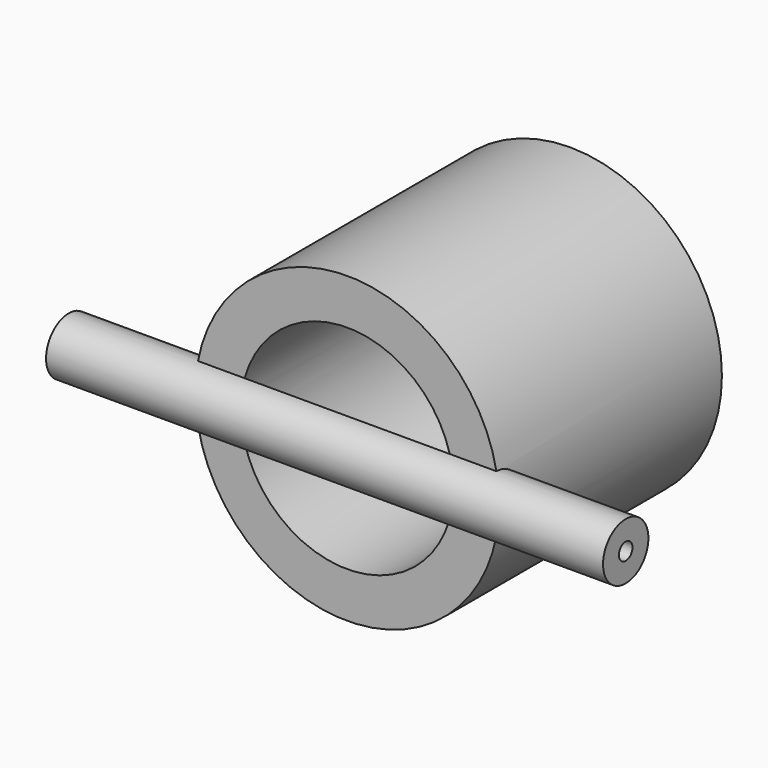
from build123d import *

# Parameters (mm, degrees)
F2_R          = 10.668
F3_DEPTH      = 104.775
F3_DEPTH_BACK = 104.775
F0_R          = 57.15
F4_DEPTH      = 104.775
F5_R          = 3.2004
F6_DEPTH      = 209.551
F1_R          = 40.0304
F7_DEPTH      = 104.776


with BuildPart() as f3:
    # F2 (on Right) → F3 (new body, two sides)
    with BuildSketch(Plane.YZ) as f3_sk:
        Circle(F2_R)
    extrude(amount=F3_DEPTH)
    extrude(f3_sk.sketch, amount=-F3_DEPTH_BACK)

    # F0 (on Front) → F4 (join)
    with BuildSketch(Plane.XZ):
        Circle(F0_R)
    extrude(amount=-F4_DEPTH)

    # F5 (on face) → F6 (cut, through all)
    with BuildSketch(Plane.YZ.offset(104.775)):
        Circle(F5_R)
    extrude(amount=-F6_DEPTH, mode=Mode.SUBTRACT)

    # F1 (on Front) → F7 (cut, through all)
    with BuildSketch(Plane.XZ):
        Circle(F1_R)
    extrude(amount=-F7_DEPTH, mode=Mode.SUBTRACT)


solid = f3.part
